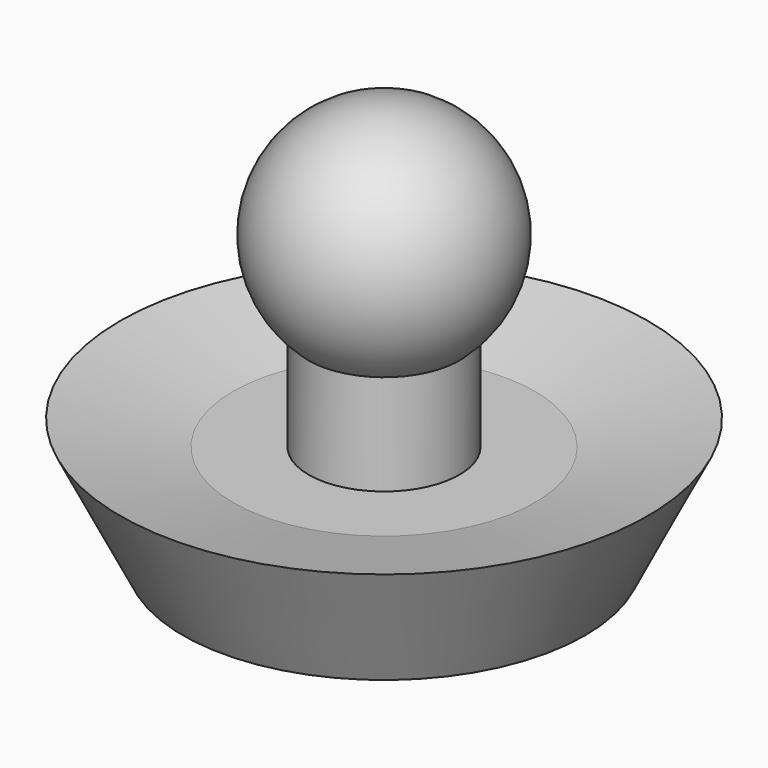
from build123d import *


with BuildPart() as part:
    # Sketch → Revolution (revolve)
    with BuildSketch(Plane.XZ):
        with BuildLine():
            Line((0, 0), (-4, 0))
            Line((-4, 0), (-5.25, 2.5))
            Line((-5.25, 2.5), (-3, 2))
            Line((-3, 2), (-1.5, 2))
            Line((-1.5, 2), (-1.5, 4))
            ThreePointArc((0, 8), (-2.136001, 6.51975), (-1.5, 4))
            Line((0, 8), (0, 0))
        make_face()
    revolve(axis=Axis((0, 0, 0), (0, 0, 1)))


solid = part.part
